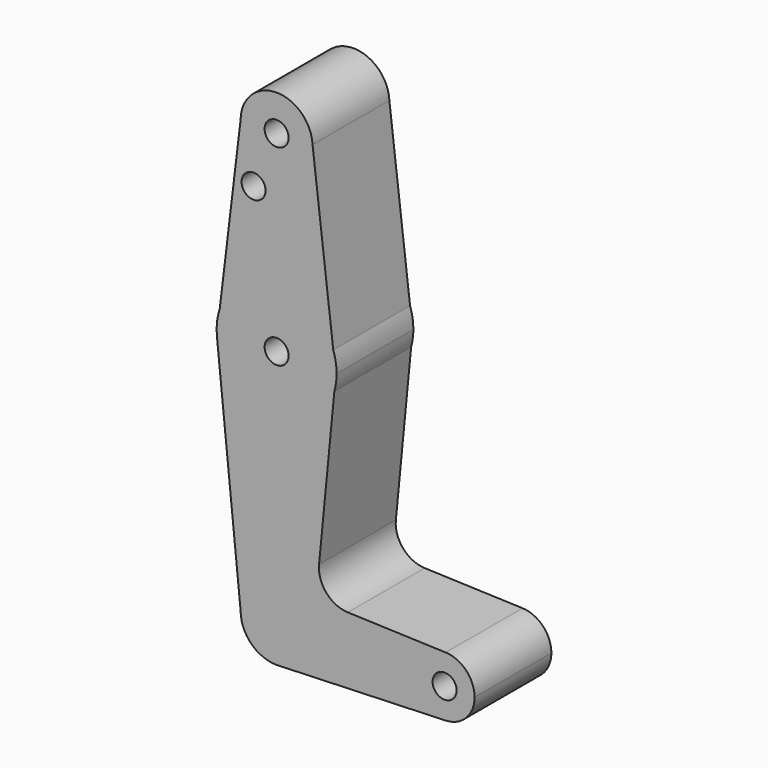
from build123d import *

# Parameters (mm, degrees)
F0_R     = 3.175
F1_DEPTH = 25.4


with BuildPart() as f1:
    # F0 (on Front) → F1 (new body)
    with BuildSketch(Plane.XZ):
        with BuildLine():
            ThreePointArc((-9.5239774035, 114.4395686855), (-0.0697862158, 104.7752556526), (9.525, 114.3))
            ThreePointArc((9.525, 114.3), (9.5222292979, 114.5297263555), (9.5139188035, 114.759319062))
            ThreePointArc((9.5139188035, 114.759319062), (-0.1599542737, 123.8236568413), (-9.5239774035, 114.4395686855))
        make_face()
        with Locations((0, 114.3)):
            Circle(F0_R, mode=Mode.SUBTRACT)
        with BuildLine():
            ThreePointArc((52.3875, 0), (50.1616327839, 5.5119104847), (44.7324052746, 7.9324746146))
            ThreePointArc((44.7324052746, 7.9324746146), (36.5125, 0), (44.7324052746, -7.9324746146))
            ThreePointArc((44.7324052746, -7.9324746146), (50.1616327839, -5.5119104847), (52.3875, 0))
        make_face()
        with Locations((44.45, 0)):
            Circle(F0_R, mode=Mode.SUBTRACT)
        with BuildLine():
            ThreePointArc((15.875, 63.5), (15.651593952, 66.1539087707), (14.9876637149, 68.7331215703))
            ThreePointArc((14.9876637149, 68.7331215703), (-0.0901164538, 79.3747442192), (-15.0461097884, 68.5626282933))
            ThreePointArc((-15.0461097884, 68.5626282933), (-15.7758551867, 65.2714452088), (-15.7942028036, 61.9003804205))
            ThreePointArc((-15.7942028036, 61.9003804205), (-1.3691563451, 47.6841523812), (15.2843424201, 59.2099531722))
            ThreePointArc((15.2843424201, 59.2099531722), (15.7266423772, 61.3347414611), (15.875, 63.5))
        make_face()
        with Locations((0, 63.5)):
            Circle(F0_R, mode=Mode.SUBTRACT)
        with BuildLine():
            ThreePointArc((15.2843424201, 59.2099531722), (-1.3691563451, 47.6841523812), (-15.7942028036, 61.9003804205))
            Line((-15.7942028036, 61.9003804205), (-9.525, 0))
            ThreePointArc((-9.525, 0), (-6.7351920908, 6.7351920908), (0, 9.525))
            ThreePointArc((0, 9.525), (0.3388863295, 9.5189695375), (0.6773435479, 9.500885786))
            ThreePointArc((0.6773435479, 9.500885786), (6.9705567315, 6.4912990883), (9.525, 0))
            ThreePointArc((9.525, 0), (6.9705567315, -6.4912990883), (0.6773435479, -9.500885786))
            Line((0.6773435479, -9.500885786), (44.7324052746, -7.9324746146))
            ThreePointArc((44.7324052746, -7.9324746146), (36.5125, 0), (44.7324052746, 7.9324746146))
            Line((44.7324052746, 7.9324746146), (18.8638606461, 8.8534247346))
            ThreePointArc((18.8638606461, 8.8534247346), (13.1651151548, 11.5615969219), (11.2338630667, 17.5682733858))
            Line((11.2338630667, 17.5682733858), (15.2843424201, 59.2099531722))
        make_face()
        with BuildLine():
            ThreePointArc((0, 9.525), (-6.7351920908, 6.7351920908), (-9.525, 0))
            ThreePointArc((-9.525, 0), (-6.7351920908, -6.7351920908), (0, -9.525))
            Line((0, -9.525), (0.6773435479, -9.500885786))
            ThreePointArc((0.6773435479, -9.500885786), (6.9705567315, -6.4912990883), (9.525, 0))
            ThreePointArc((9.525, 0), (6.9705567315, 6.4912990883), (0.6773435479, 9.500885786))
            Line((0.6773435479, 9.500885786), (0, 9.525))
        make_face()
        with BuildLine():
            Line((0.6773435479, -9.500885786), (0, -9.525))
            ThreePointArc((0, -9.525), (0.3388863295, -9.5189695375), (0.6773435479, -9.500885786))
        make_face()
        with BuildLine():
            ThreePointArc((0.6773435479, 9.500885786), (0.3388863295, 9.5189695375), (0, 9.525))
            Line((0, 9.525), (0.6773435479, 9.500885786))
        make_face()
        with BuildLine():
            ThreePointArc((9.5139188035, 114.759319062), (9.5222292979, 114.5297263555), (9.525, 114.3))
            ThreePointArc((9.525, 114.3), (-0.0697862158, 104.7752556526), (-9.5239774035, 114.4395686855))
            Line((-9.5239774035, 114.4395686855), (-15.0461097884, 68.5626282933))
            ThreePointArc((-15.0461097884, 68.5626282933), (-0.0901164538, 79.3747442192), (14.9876637149, 68.7331215703))
            Line((14.9876637149, 68.7331215703), (9.5139188035, 114.759319062))
        make_face()
        with Locations((-6.0980641283, 100.0252)):
            Circle(F0_R, mode=Mode.SUBTRACT)
    extrude(amount=F1_DEPTH)


solid = f1.part
